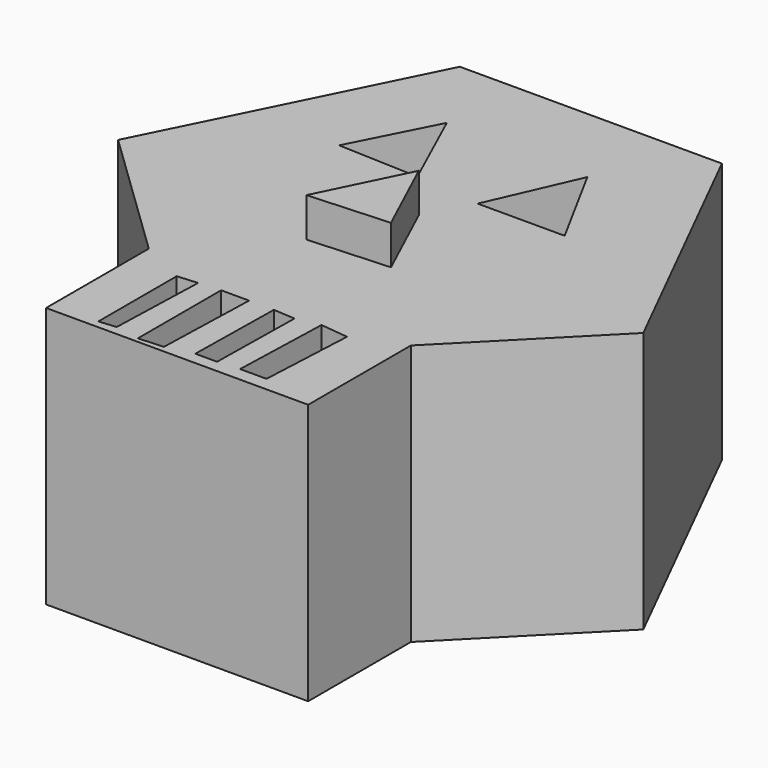
from build123d import *

# Parameters (mm, degrees)
PAD_DEPTH       = 20
POCKET_DEPTH    = 5
POCKET001_DEPTH = 5
PAD001_DEPTH    = 3


with BuildPart() as part:
    # Sketch → Pad (new body)
    with BuildSketch(Plane.XY):
        Polygon((-10.101072, 30.032787), (9.979783, 30.032787), (20.020205, 9.951933), (10.174738, 0), (10.174738, -9.836479), (-9.906112, -9.836479), (-9.906112, 0), (-20.141495, 9.854452), align=None)
    extrude(amount=PAD_DEPTH)

    # Sketch001 (on Face10 of Pad) → Pocket (cut)
    with BuildSketch(Plane.XY.offset(20)):
        Polygon((-6.373003, -1.744858), (-6.373003, -9.245775), (-5.063322, -9.126713), (-4.825196, -1.625796), align=None)
        Polygon((-3.158328, -1.506734), (-3.158328, -9.483899), (-1.253332, -9.364837), (-1.015209, -1.506734), align=None)
        Polygon((0.889791, -1.506734), (0.770723, -8.888589), (2.437592, -8.888589), (2.556656, -1.625796), align=None)
        Polygon((4.342592, -1.268609), (4.104469, -8.769526), (6.128524, -8.769526), (6.485711, -1.506734), align=None)
    extrude(amount=-POCKET_DEPTH, mode=Mode.SUBTRACT)

    # Sketch002 (on Face5 of Pocket) → Pocket001 (cut)
    with BuildSketch(Plane.XY.offset(20)):
        Polygon((-6.165723, 23.872267), (-9.380401, 17.56197), (-3.18917, 17.323847), align=None)
        Polygon((4.788002, 23.634144), (1.811443, 16.847597), (8.478922, 16.847597), align=None)
    extrude(amount=-POCKET001_DEPTH, mode=Mode.SUBTRACT)

    # Sketch004 (on Face5 of Pocket001) → Pad001 (join)
    with BuildSketch(Plane.XY.offset(20)):
        Polygon((0, 13.475349), (-3.27434, 6.807868), (2.916898, 7.165055), align=None)
    extrude(amount=PAD001_DEPTH)


solid = part.part
